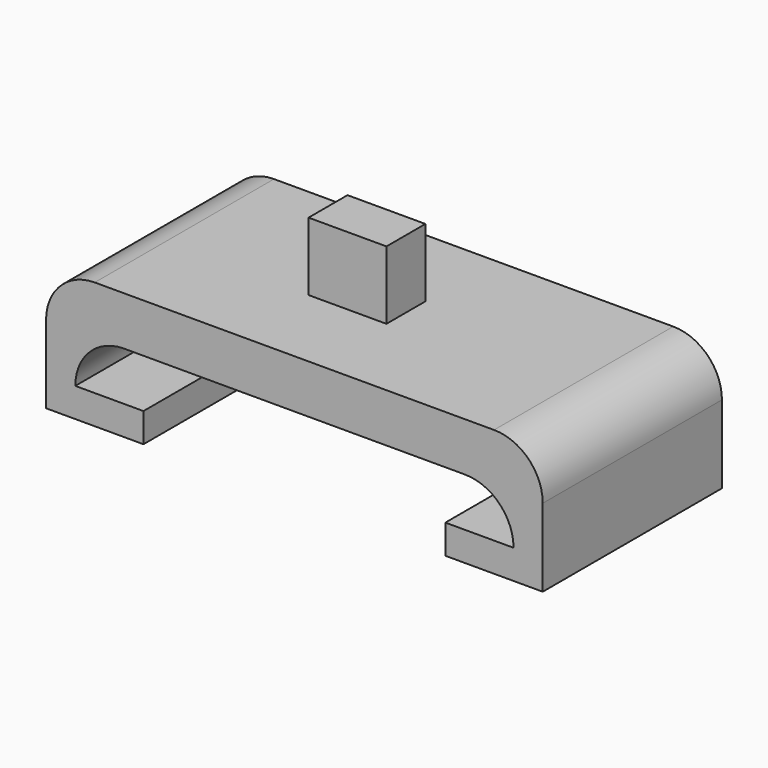
from build123d import *

# Parameters (mm, degrees)
F1_DEPTH = 23
F2_R     = 5
F3_W     = 8
F3_H     = 5
F4_DEPTH = 7


with BuildPart() as f1:
    # F0 (on Front) → F1 (new body)
    with BuildSketch(Plane.XZ):
        with BuildLine():
            ThreePointArc((-20.752427, -5), (-19.287961, -1.464466), (-15.752427, 0))
            Line((-15.752427, 0), (19.247573, 0))
            ThreePointArc((19.247573, 0), (22.783106, -1.464466), (24.247573, -5))
            Line((24.247573, -5), (17.247573, -5))
            Line((17.247573, -5), (17.247573, -8))
            Line((17.247573, -8), (27.247573, -8))
            Line((27.247573, -8), (27.247573, 5))
            Line((27.247573, 5), (-23.752427, 5))
            Line((-23.752427, 5), (-23.752427, -8))
            Line((-23.752427, -8), (-13.752427, -8))
            Line((-13.752427, -8), (-13.752427, -5))
            Line((-13.752427, -5), (-20.752427, -5))
        make_face()
    extrude(amount=F1_DEPTH)

    # F2
    f2_edges = [f1.edges().sort_by_distance(p)[0] for p in [
        (27.247573, -11.5, 5),
        (-23.752427, -11.5, 5),
    ]]
    fillet(f2_edges, radius=F2_R)

    # F3 (on face) → F4 (join)
    with BuildSketch(Plane.XY.offset(5)):
        with Locations((0, -11.5)):
            Rectangle(F3_W, F3_H)
    extrude(amount=F4_DEPTH)


solid = f1.part
